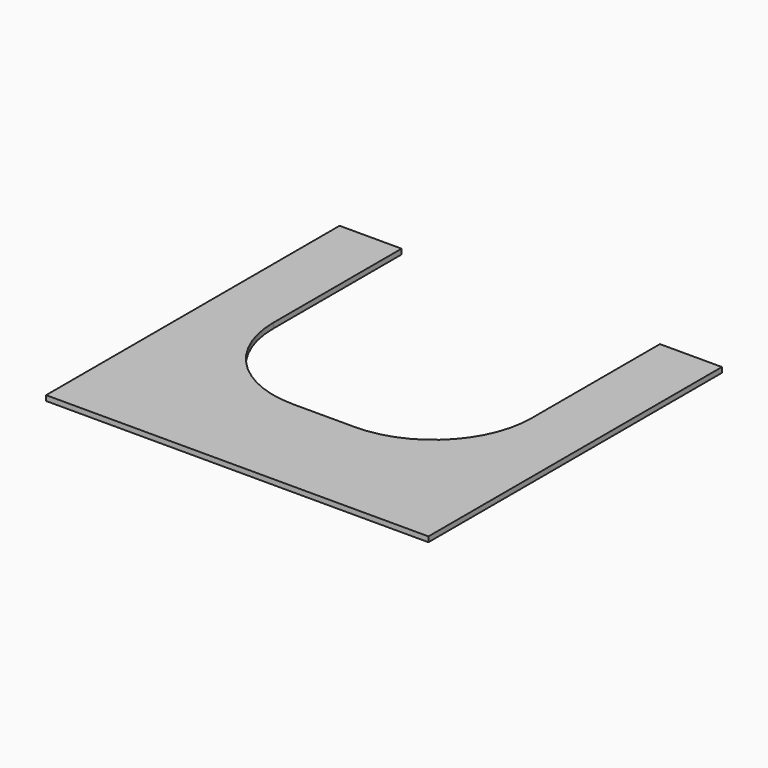
from build123d import *

# Parameters (mm, degrees)
BOX001_W        = 74
BOX001_H        = 71
BOX001_DEPTH    = 1
SKETCH016_W     = 50
SKETCH016_H     = 50
POCKET009_DEPTH = 1.001
FILLET001_R     = 19


with BuildPart() as part:
    # Box001 → Box001 (new body)
    with BuildSketch(Plane(origin=(2, 0, 1), x_dir=(1, 0, 0), z_dir=(0, 0, 1))):
        with Locations((37, 35.5)):
            Rectangle(BOX001_W, BOX001_H)
    extrude(amount=BOX001_DEPTH)


with BuildPart() as part_1:
    # BaseFeature001 placement: moved
    add(part.part.moved(Location((-2, 0, -1))))

    # Sketch016 (on Face6 of BaseFeature001) → Pocket009 (cut, through all)
    with BuildSketch(Plane.XY.offset(1)):
        with Locations((37, 46)):
            Rectangle(SKETCH016_W, SKETCH016_H)
    extrude(amount=-POCKET009_DEPTH, mode=Mode.SUBTRACT)

    # Fillet001
    fillet001_edges = [part_1.edges().sort_by_distance(p)[0] for p in [
        (12, 21, 0.5),
        (62, 21, 0.5),
    ]]
    fillet(fillet001_edges, radius=FILLET001_R)


with BuildPart() as part_2:
    # Body001 placement: moved
    add(part_1.part.moved(Location((0, -89, 0))))


solid = part_2.part
